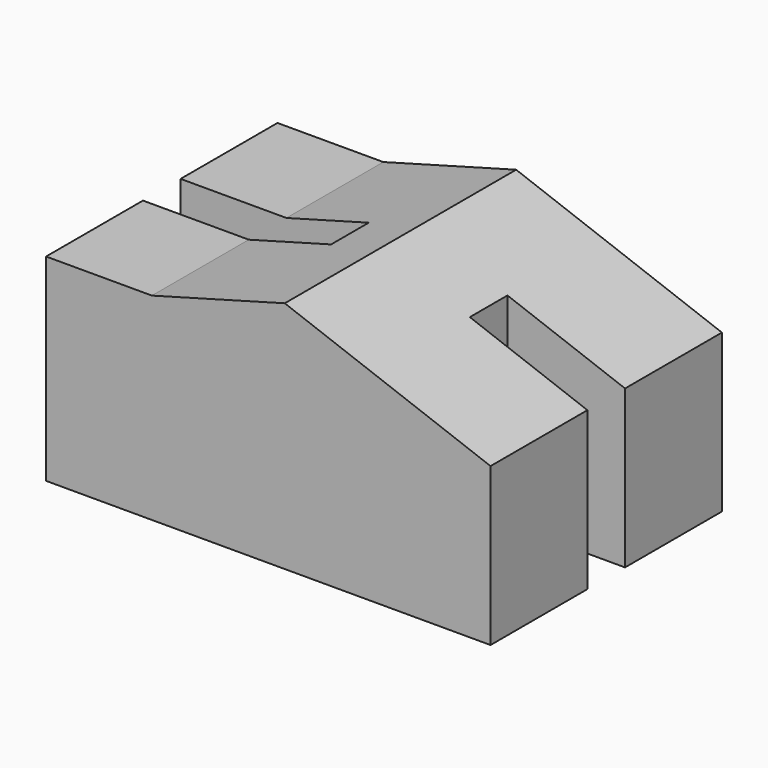
from build123d import *

# Parameters (mm, degrees)
F1_DEPTH = 12.3
F2_W     = 8
F2_H     = 2
F2_W_2   = 5
F3_DEPTH = 9.951001
F5_DEPTH = 10.901


with BuildPart() as f1:
    # F0 (on Front) → F1 (new body)
    with BuildSketch(Plane.XZ):
        Polygon((4.5, 8.4), (0, 8.4), (0, 0), (18.9, 0), (18.9, 6.7), (10.149998, 9.950001), align=None)
    extrude(amount=F1_DEPTH)

    # F2 (on face) → F3 (cut, through all)
    with BuildSketch(Plane(origin=(0, 0, 0), x_dir=(1, 0, 0), z_dir=(0, 0, -1))):
        with Locations((4, 6.15)):
            Rectangle(F2_W, F2_H)
        with Locations((16.4, 6.15)):
            Rectangle(F2_W_2, F2_H)
    extrude(amount=-F3_DEPTH, mode=Mode.SUBTRACT)

    # F4 (on face) → F5 (cut, through all)
    with BuildSketch(Plane(origin=(8, 0, 0), x_dir=(0, -1, 0), z_dir=(-1, 0, 0))):
        with BuildLine():
            ThreePointArc((5.15, 4.2), (6.15, 3.2), (7.15, 4.2))
            ThreePointArc((7.15, 4.2), (6.15, 5.2), (5.15, 4.2))
        make_face()
    extrude(amount=-F5_DEPTH, mode=Mode.SUBTRACT)


solid = f1.part
